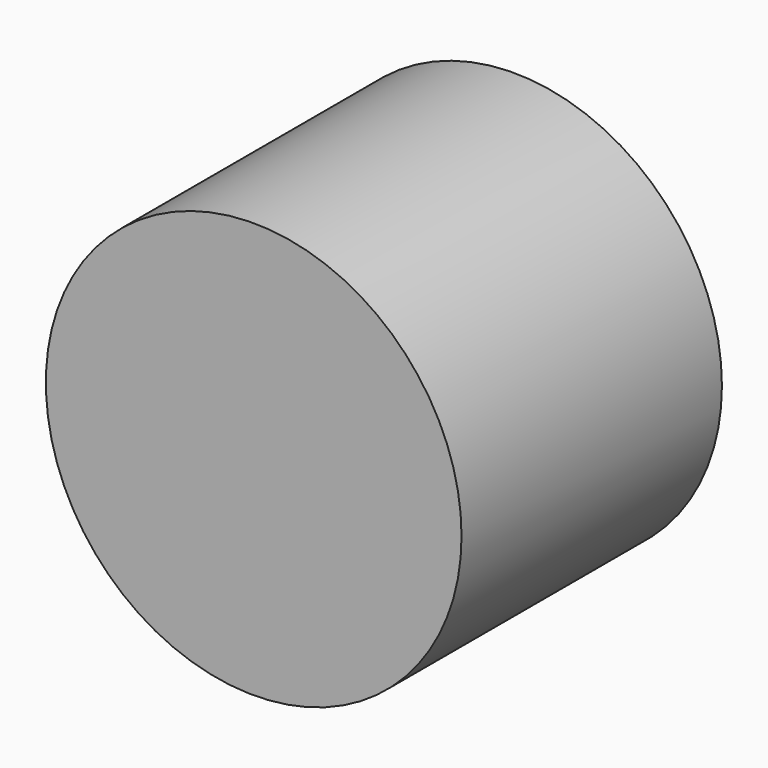
from build123d import *

# Parameters (mm, degrees)
F0_W       = 115.6759760343
F0_H       = 74.756577611
F1_DEPTH   = 12.7
F2_R       = 9.4593135563
F3_DEPTH   = 25.4
F4_W       = 115.6759760343
F4_H       = 74.756577611
F4_R       = 8.4889409242
F5_DEPTH   = 25.4
F6_R       = 8.1100294651
F1_FACE1_W = 115.6759760343
F1_FACE1_H = 74.756577611
F7_DEPTH   = 25.4


with BuildPart() as f1:
    # F0 (on Front) → F1 (new body, symmetric)
    with BuildSketch(Plane.XZ):
        with Locations((2.7541879099, 0)):
            Rectangle(F0_W, F0_H)
    extrude(amount=F1_DEPTH, both=True)

    # F2 (on face) → F3 (join)
    with BuildSketch(Plane.XZ.offset(12.7)):
        with Locations((-30.2960947156, 18.0989615619)):
            Circle(F2_R)
    extrude(amount=-F3_DEPTH)

    # F4 (on face) → F5 (join)
    with BuildSketch(Plane(origin=(0, 12.7, 0), x_dir=(-1, 0, 0), z_dir=(0, 1, 0))):
        with Locations((-2.7541879099, 0)):
            Rectangle(F4_W, F4_H)
        with Locations((-43.9671128988, 24.5215520263)):
            Circle(F4_R, mode=Mode.SUBTRACT)
        with Locations((-43.9671128988, 24.5215520263)):
            Circle(F4_R)
    extrude(amount=-F5_DEPTH)

    # F6 (on Front) + F1_face1 (on face) → F7 (intersect)
    with BuildSketch(Plane.XZ):
        with Locations((37.1541380882, 23.0683349073)):
            Circle(F6_R)
    with BuildSketch(Plane(origin=(2.7541879099, 12.7, 0), x_dir=(1, 0, 0), z_dir=(0, 1, 0))):
        Rectangle(F1_FACE1_W, F1_FACE1_H)
    extrude(amount=-F7_DEPTH, dir=(0, -1, 0), mode=Mode.INTERSECT)


solid = f1.part
